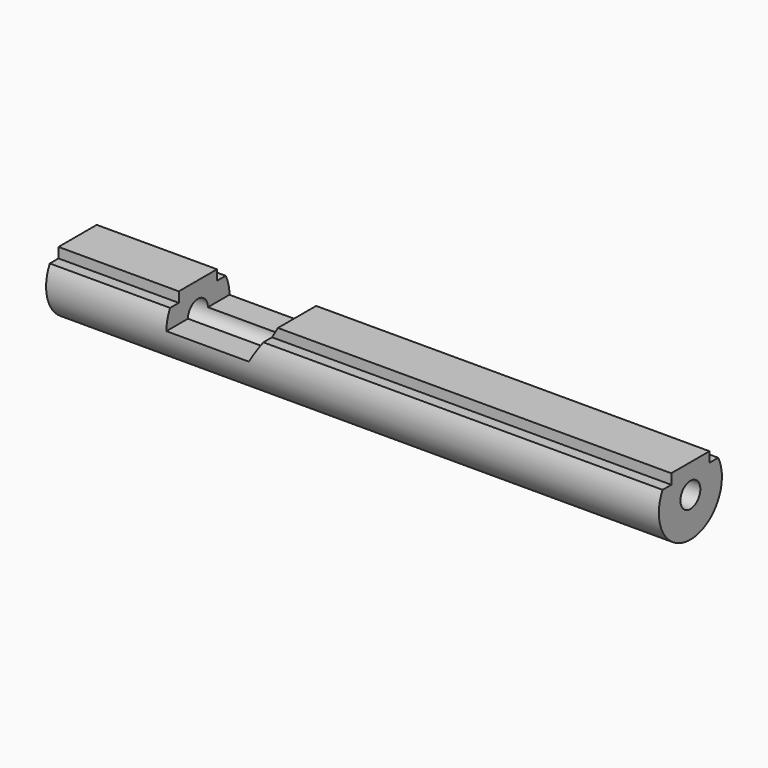
from build123d import *

# Parameters (mm, degrees)
F1_DEPTH = 153.1874
F3_DEPTH = 20.32
F4_R     = 3.1115
F5_DEPTH = 170.688
F7_DEPTH = 153.1884
F8_R     = 15.875
F9_DEPTH = 50.8


with BuildPart() as f1:
    # F0 (on Right) → F1 (new body)
    with BuildSketch(Plane.YZ):
        with BuildLine():
            Line((6.742013631, 7.1882), (-6.742013631, 7.1882))
            ThreePointArc((-6.742013631, 7.1882), (0, -9.8552), (6.742013631, 7.1882))
        make_face()
    extrude(amount=-F1_DEPTH)

    # F2 (on Front) → F3 (cut, symmetric)
    with BuildSketch(Plane.XZ):
        Polygon((-97.2876434091, 9.0090138838), (-123.1138, 9.0090138838), (-123.1138, 0), (-102.489, 0), align=None)
    extrude(amount=F3_DEPTH, both=True, mode=Mode.SUBTRACT)

    # F4 (on face) → F5 (cut)
    with BuildSketch(Plane.YZ):
        Circle(F4_R)
    extrude(amount=-F5_DEPTH, mode=Mode.SUBTRACT)

    # F6 (on face) → F7 (cut, through all)
    with BuildSketch(Plane.YZ):
        with BuildLine():
            Line((-5.969, 4.6482), (-5.969, 7.1882))
            Line((-5.969, 7.1882), (-6.742013631, 7.1882))
            ThreePointArc((-6.742013631, 7.1882), (-7.8199129874, 5.9978269323), (-8.6901785827, 4.6482))
            Line((-8.6901785827, 4.6482), (-5.969, 4.6482))
        make_face()
        with BuildLine():
            Line((5.969, 7.1882), (5.969, 4.6482))
            Line((5.969, 4.6482), (8.6901785827, 4.6482))
            ThreePointArc((8.6901785827, 4.6482), (7.8199129874, 5.9978269323), (6.742013631, 7.1882))
            Line((6.742013631, 7.1882), (5.969, 7.1882))
        make_face()
    extrude(amount=-F7_DEPTH, mode=Mode.SUBTRACT)


with BuildPart() as f9:
    # F8 (on face) → F9 (new body)
    with BuildSketch(Plane.YZ):
        Circle(F8_R)
        with BuildLine():
            Line((5.969, 7.1882), (5.969, 4.6482))
            Line((5.969, 4.6482), (8.6901785827, 4.6482))
            ThreePointArc((8.6901785827, 4.6482), (0, -9.8552), (-8.6901785827, 4.6482))
            Line((-8.6901785827, 4.6482), (-5.969, 4.6482))
            Line((-5.969, 4.6482), (-5.969, 7.1882))
            Line((-5.969, 7.1882), (5.969, 7.1882))
        make_face(mode=Mode.SUBTRACT)
    extrude(amount=F9_DEPTH)


solid = f1.part
